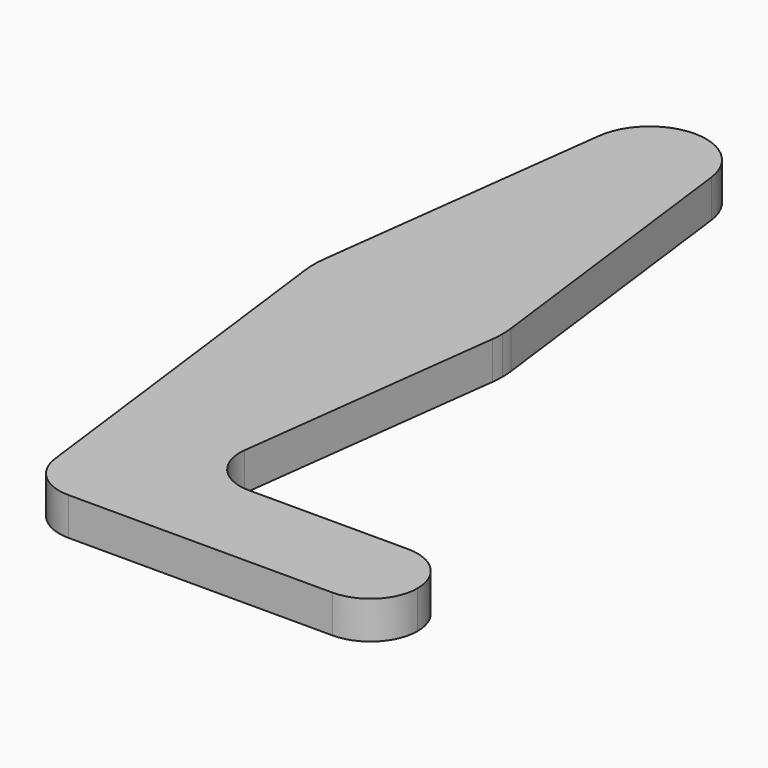
from build123d import *

# Parameters (mm, degrees)
F1_DEPTH = 0.25


with BuildPart() as f1:
    # F0 (on Top) → F1 (new body)
    with BuildSketch(Plane.XY):
        with BuildLine():
            Line((-0.372059, 4.546875), (0.372059, 4.546875))
            ThreePointArc((0.372059, 4.546875), (0, 4.875), (-0.372059, 4.546875))
        make_face()
        with BuildLine():
            ThreePointArc((-0.372059, 4.546875), (-0.023484, 4.125736), (0.375, 4.5))
            ThreePointArc((0.375, 4.5), (0.374264, 4.523484), (0.372059, 4.546875))
            Line((0.372059, 4.546875), (-0.372059, 4.546875))
        make_face()
        with BuildLine():
            ThreePointArc((0.372059, 4.546875), (0.374264, 4.523484), (0.375, 4.5))
            ThreePointArc((0.375, 4.5), (-0.023484, 4.125736), (-0.372059, 4.546875))
            Line((-0.372059, 4.546875), (-0.620098, 2.578125))
            ThreePointArc((-0.620098, 2.578125), (0, 3.125), (0.620098, 2.578125))
            Line((0.620098, 2.578125), (0.372059, 4.546875))
        make_face()
        with BuildLine():
            ThreePointArc((0.625, 2.5), (0.623773, 2.539139), (0.620098, 2.578125))
            ThreePointArc((0.620098, 2.578125), (0, 3.125), (-0.620098, 2.578125))
            ThreePointArc((-0.620098, 2.578125), (-0.625, 2.5), (-0.620098, 2.421875))
            ThreePointArc((-0.620098, 2.421875), (0, 1.875), (0.620098, 2.421875))
            ThreePointArc((0.620098, 2.421875), (0.623773, 2.460861), (0.625, 2.5))
        make_face()
        with BuildLine():
            ThreePointArc((0.3125, 0), (-0.01957, 0.311887), (-0.310049, -0.039062))
            ThreePointArc((-0.310049, -0.039062), (-0.206699, -0.234375), (0, -0.3125))
            ThreePointArc((0, -0.3125), (0.220971, -0.220971), (0.3125, 0))
        make_face()
        with BuildLine():
            ThreePointArc((1.75, 0.3125), (1.4375, 0), (1.75, -0.3125))
            ThreePointArc((1.75, -0.3125), (1.970971, -0.220971), (2.0625, 0))
            ThreePointArc((2.0625, 0), (1.970971, 0.220971), (1.75, 0.3125))
        make_face()
        with BuildLine():
            ThreePointArc((0.620098, 2.421875), (0, 1.875), (-0.620098, 2.421875))
            Line((-0.620098, 2.421875), (-0.310049, -0.039063))
            ThreePointArc((-0.310049, -0.039062), (-0.01957, 0.311887), (0.3125, 0))
            ThreePointArc((0.3125, 0), (0.220971, -0.220971), (0, -0.3125))
            Line((0, -0.3125), (1.75, -0.3125))
            ThreePointArc((1.75, -0.3125), (1.4375, 0), (1.75, 0.3125))
            Line((1.75, 0.3125), (0.69451, 0.3125))
            ThreePointArc((0.69451, 0.3125), (0.46951, 0.414069), (0.396863, 0.65))
            Line((0.396863, 0.65), (0.620098, 2.421875))
        make_face()
    extrude(amount=F1_DEPTH)


solid = f1.part
